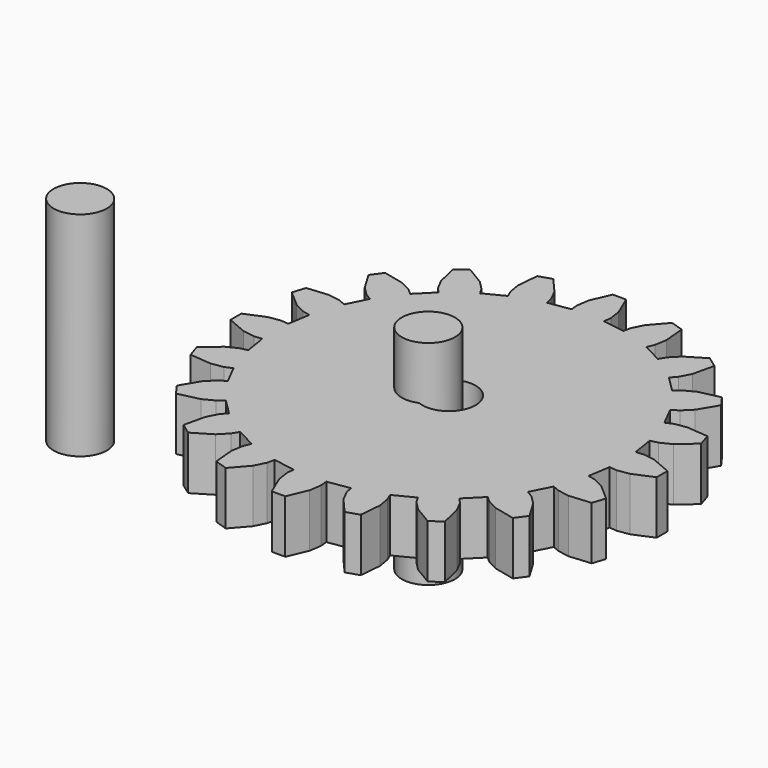
from build123d import *

# Parameters (mm, degrees)
F0_R          = 3.175
F1_DEPTH      = 6.35
F2_R          = 3.175
F3_DEPTH      = 12.7
F3_DEPTH_BACK = 12.7


with BuildPart() as f1:
    # F0 (on Top) → F1 (new body)
    with BuildSketch(Plane.XY):
        Polygon((21.614472, 2.025642), (20.701479, 1.940085), (20.287793, 4.551981), (21.182545, 4.752731), (22.464108, 5.393158), (24.404836, 7.085775), (23.908842, 8.612293), (21.343866, 8.840921), (19.930626, 8.60574), (19.088759, 8.242232), (17.888197, 10.59846), (18.677125, 11.065886), (19.698059, 12.07099), (21.020753, 14.280475), (20.077314, 15.579009), (17.567229, 15.003827), (16.295836, 14.343446), (15.607495, 13.737579), (13.737588, 15.607495), (14.343455, 16.295827), (15.003827, 17.567229), (15.579009, 20.077314), (14.280484, 21.020753), (12.07099, 19.698059), (11.065886, 18.677116), (10.59846, 17.888197), (8.242242, 19.088759), (8.60574, 19.930626), (8.840921, 21.343866), (8.612293, 23.908833), (7.085775, 24.404836), (5.393158, 22.464108), (4.75274, 21.182545), (4.551981, 20.287793), (1.940085, 20.701479), (2.025651, 21.614472), (1.812596, 23.031218), (0.80254, 25.4), (-0.80254, 25.4), (-1.812596, 23.031218), (-2.025651, 21.614472), (-1.940085, 20.701479), (-4.551981, 20.287793), (-4.75274, 21.182545), (-5.393158, 22.464108), (-7.085775, 24.404836), (-8.612293, 23.908833), (-8.840921, 21.343866), (-8.60574, 19.930626), (-8.242242, 19.088759), (-10.59846, 17.888197), (-11.065886, 18.677116), (-12.07099, 19.698059), (-14.280484, 21.020753), (-15.579009, 20.077314), (-15.003827, 17.567229), (-14.343455, 16.295827), (-13.737588, 15.607495), (-15.607495, 13.737579), (-16.295836, 14.343446), (-17.567229, 15.003827), (-20.077314, 15.579009), (-21.020753, 14.280475), (-19.698059, 12.07099), (-18.677125, 11.065886), (-17.888197, 10.59846), (-19.088759, 8.242232), (-19.930626, 8.60574), (-21.343866, 8.840921), (-23.908842, 8.612293), (-24.404836, 7.085775), (-22.464108, 5.393158), (-21.182545, 4.752731), (-20.287793, 4.551981), (-20.701479, 1.940085), (-21.614472, 2.025642), (-23.031218, 1.812596), (-25.4, 0.802531), (-25.4, -0.80254), (-23.031218, -1.812596), (-21.614472, -2.025651), (-20.701479, -1.940085), (-20.287793, -4.551981), (-21.182545, -4.75274), (-22.464108, -5.393158), (-24.404836, -7.085775), (-23.908842, -8.612293), (-21.343866, -8.840921), (-19.930626, -8.605749), (-19.088759, -8.242242), (-17.888197, -10.59847), (-18.677125, -11.065886), (-19.698059, -12.07099), (-21.020753, -14.280484), (-20.077314, -15.579018), (-17.567229, -15.003836), (-16.295836, -14.343455), (-15.607495, -13.737588), (-13.737588, -15.607495), (-14.343455, -16.295836), (-15.003827, -17.567229), (-15.579009, -20.077314), (-14.280484, -21.020753), (-12.07099, -19.698069), (-11.065886, -18.677125), (-10.59846, -17.888206), (-8.242242, -19.088759), (-8.60574, -19.930626), (-8.840921, -21.343866), (-8.612293, -23.908842), (-7.085775, -24.404836), (-5.393158, -22.464117), (-4.75274, -21.182545), (-4.551981, -20.287802), (-1.940085, -20.701479), (-2.025651, -21.614481), (-1.812596, -23.031218), (-0.80254, -25.4), (0.80254, -25.4), (1.812596, -23.031218), (2.025651, -21.614481), (1.940085, -20.701479), (4.551981, -20.287802), (4.75274, -21.182545), (5.393158, -22.464117), (7.085775, -24.404836), (8.612293, -23.908842), (8.840921, -21.343866), (8.60574, -19.930626), (8.242242, -19.088759), (10.59846, -17.888206), (11.065886, -18.677125), (12.07099, -19.698069), (14.280484, -21.020753), (15.579009, -20.077314), (15.003827, -17.567229), (14.343455, -16.295836), (13.737588, -15.607495), (15.607495, -13.737588), (16.295836, -14.343455), (17.567229, -15.003836), (20.077314, -15.579018), (21.020753, -14.280484), (19.698059, -12.07099), (18.677125, -11.065886), (17.888197, -10.59847), (19.088759, -8.242242), (19.930626, -8.605749), (21.343866, -8.840921), (23.908842, -8.612293), (24.404836, -7.085775), (22.464108, -5.393158), (21.182545, -4.75274), (20.287793, -4.551981), (20.701479, -1.940085), (21.614472, -2.025651), (23.031218, -1.812596), (25.4, -0.80254), (25.4, 0.802531), (23.031218, 1.812596), align=None)
        Circle(F0_R, mode=Mode.SUBTRACT)
    extrude(amount=F1_DEPTH)


with BuildPart() as f3:
    # F2 (on Top) → F3 (new body, two sides)
    with BuildSketch(Plane.XY) as f3_sk:
        with Locations((-43.962646, 0)):
            Circle(F2_R)
        with Locations((-2.459046, 0)):
            Circle(F2_R)
    extrude(amount=F3_DEPTH)
    extrude(f3_sk.sketch, amount=-F3_DEPTH_BACK)


solid = Compound([f1.part, f3.part])
